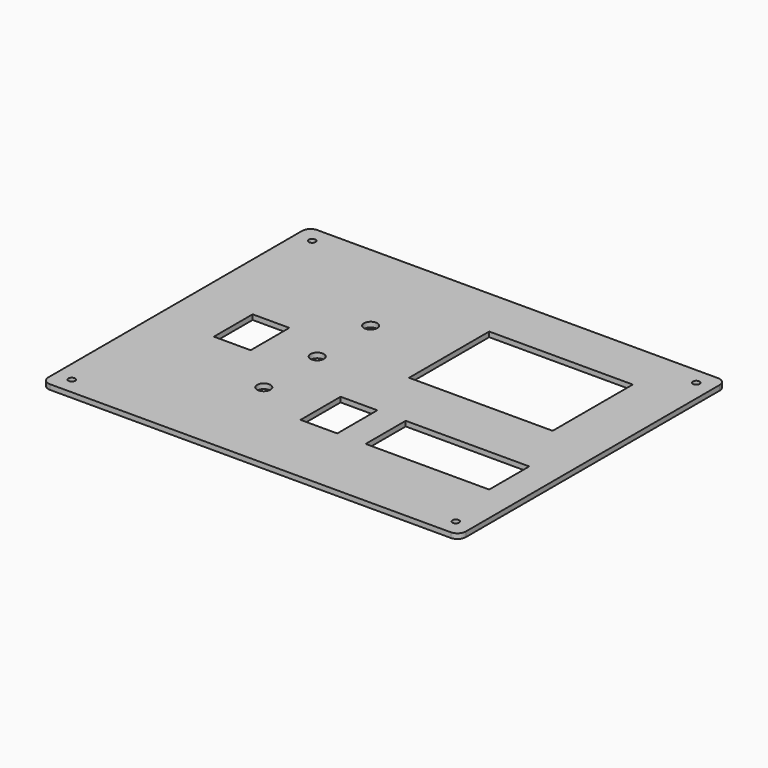
from build123d import *

# Parameters (mm, degrees)
F0_R     = 2
F0_R_2   = 4
F0_W     = 22
F0_H     = 30
F0_W_2   = 74
F0_H_2   = 29
F0_W_3   = 86
F0_H_3   = 60
F1_DEPTH = 3


with BuildPart() as f1:
    # F0 (on Top) → F1 (new body)
    with BuildSketch(Plane.XY):
        with BuildLine():
            Line((-120, -100), (120, -100))
            ThreePointArc((120, -100), (123.535534, -98.535534), (125, -95))
            Line((125, -95), (125, 95))
            ThreePointArc((125, 95), (123.535534, 98.535534), (120, 100))
            Line((120, 100), (-120, 100))
            ThreePointArc((-120, 100), (-123.535534, 98.535534), (-125, 95))
            Line((-125, 95), (-125, -95))
            ThreePointArc((-125, -95), (-123.535534, -98.535534), (-120, -100))
        make_face()
        with Locations((-115, -90)):
            Circle(F0_R, mode=Mode.SUBTRACT)
        with Locations((-40, -40)):
            Circle(F0_R_2, mode=Mode.SUBTRACT)
        with Locations((115, -90)):
            Circle(F0_R, mode=Mode.SUBTRACT)
        with Locations((5, -40)):
            Rectangle(F0_W, F0_H, mode=Mode.SUBTRACT)
        with Locations((70, -40)):
            Rectangle(F0_W_2, F0_H, mode=Mode.SUBTRACT)
        with Locations((-79.288371, 0)):
            Rectangle(F0_W, F0_H_2, mode=Mode.SUBTRACT)
        with Locations((-40, 0)):
            Circle(F0_R_2, mode=Mode.SUBTRACT)
        with Locations((-40, 40)):
            Circle(F0_R_2, mode=Mode.SUBTRACT)
        with Locations((-115, 90)):
            Circle(F0_R, mode=Mode.SUBTRACT)
        with Locations((50, 40)):
            Rectangle(F0_W_3, F0_H_3, mode=Mode.SUBTRACT)
        with Locations((115, 90)):
            Circle(F0_R, mode=Mode.SUBTRACT)
    extrude(amount=F1_DEPTH)


solid = f1.part
